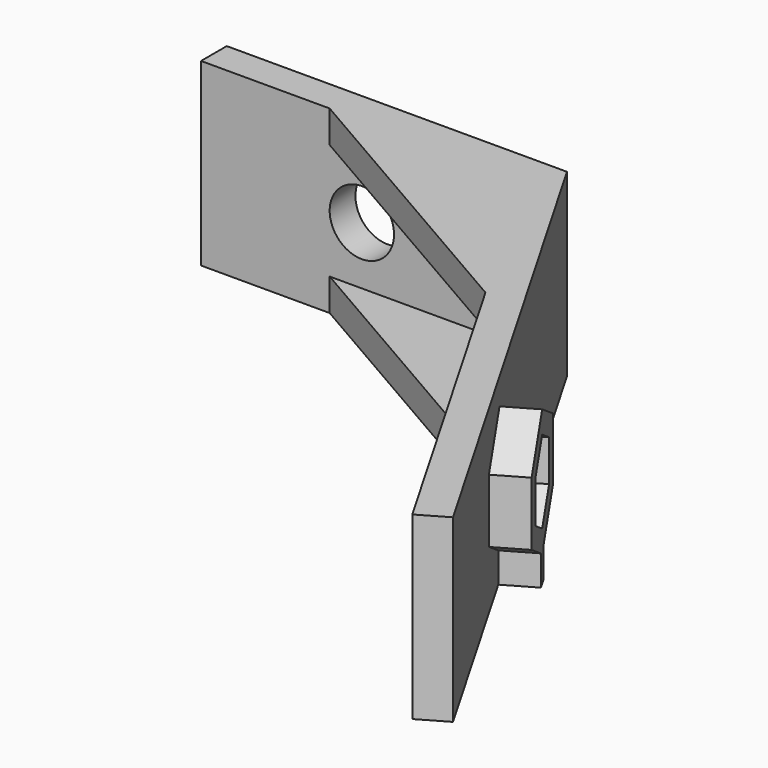
from build123d import *

# Parameters (mm, degrees)
F1_DEPTH  = 28
F2_R      = 5
F3_DEPTH  = 5.001
F4_R      = 3.5
F5_DEPTH  = 44.7891304684
F7_DEPTH  = 5
F9_DEPTH  = 5
F11_DEPTH = 5.24
F13_DEPTH = 5.24


with BuildPart() as f1:
    # F0 (on Top) → F1 (new body)
    with BuildSketch(Plane.XY):
        Polygon((52.8867513459, 5), (0, 5), (0, 0), (50, 0), (94.5, -77.0762609368), (98.8301270189, -74.5762609368), align=None)
    extrude(amount=F1_DEPTH)

    # F2 (on face) → F3 (cut, through all)
    with BuildSketch(Plane.XZ):
        with Locations((25, 14)):
            Circle(F2_R)
    extrude(amount=-F3_DEPTH, mode=Mode.SUBTRACT)

    # F4 (on face) → F5 (cut, through all)
    with BuildSketch(Plane(origin=(37.5, 21.6506350946, 0), x_dir=(0.5, -0.8660254038, 0), z_dir=(-0.8660254038, -0.5, 0))):
        with Locations((76.5, 14)):
            Circle(F4_R)
    extrude(amount=-F5_DEPTH, mode=Mode.SUBTRACT)

    # F6 (on Top) → F7 (join)
    with BuildSketch(Plane.XY):
        Polygon((50, 0), (20, 0), (65, -25.9807621135), align=None)
    extrude(amount=F7_DEPTH)

    # F8 (on face) → F9 (join)
    with BuildSketch(Plane.XY.offset(28)):
        Polygon((65, -25.9807621135), (50, 0), (20, 0), align=None)
    extrude(amount=-F9_DEPTH)

    # F10 (on face) → F11 (join)
    with BuildSketch(Plane(origin=(41.8301270189, 24.1506350946, 0), x_dir=(-0.5, 0.8660254038, 0), z_dir=(0.8660254038, 0.5, 0))):
        Polygon((-85.0626, 18.943619415), (-85.0626, 9.056380585), (-76.5, 4.1127611701), (-67.9374, 9.056380585), (-67.9374, 18.943619415), (-76.5, 23.8872388299), align=None)
        Polygon((-76.5, 20.4231372148), (-70.9374, 17.2115686074), (-70.9374, 10.7884313926), (-76.5, 7.5768627852), (-82.0626, 10.7884313926), (-82.0626, 17.2115686074), align=None, mode=Mode.SUBTRACT)
    extrude(amount=F11_DEPTH)

    # F12 (on face) → F13 (join, through all)
    with BuildSketch(Plane(origin=(41.8301270189, 24.1506350946, 0), x_dir=(-0.5, 0.8660254038, 0), z_dir=(0.8660254038, 0.5, 0))):
        Polygon((-75.5, 0), (-75.5, 4.6901114393), (-76.5, 4.1127611701), (-77.5, 4.6901114393), (-77.5, 0), align=None)
    extrude(amount=F13_DEPTH)


solid = f1.part
